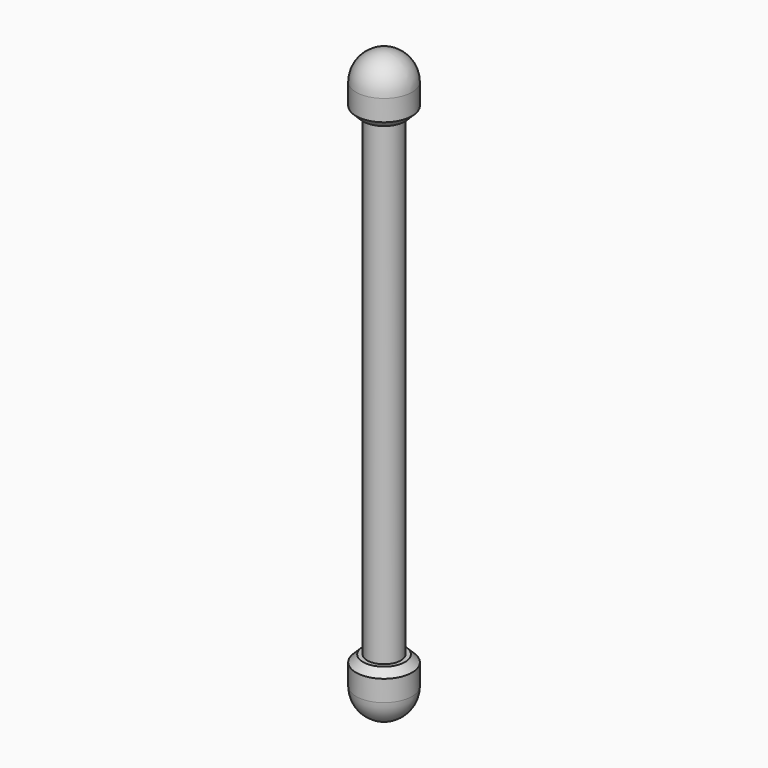
from build123d import *

# Parameters (mm, degrees)
F0_R     = 4.8
F1_DEPTH = 136
F2_R     = 8
F3_DEPTH = 16
F4_R     = 8
F5_DEPTH = 16
F6_R     = 8
F7_SIZE  = 2


with BuildPart() as f1:
    # F0 (on Top) → F1 (new body)
    with BuildSketch(Plane.XY):
        Circle(F0_R)
    extrude(amount=F1_DEPTH)

    # F2 (on face) → F3 (join)
    with BuildSketch(Plane(origin=(0, 0, 0), x_dir=(1, 0, 0), z_dir=(0, 0, -1))):
        Circle(F2_R)
    extrude(amount=F3_DEPTH)

    # F4 (on face) → F5 (join)
    with BuildSketch(Plane.XY.offset(136)):
        Circle(F4_R)
    extrude(amount=F5_DEPTH)

    # F6
    f6_edges = [f1.edges().sort_by_distance(p)[0] for p in [
        (-8, 0, -16),
        (-8, 0, 152),
    ]]
    fillet(f6_edges, radius=F6_R)

    # F7
    f7_edges = [f1.edges().sort_by_distance(p)[0] for p in [
        (-8, 0, 0),
        (-8, 0, 136),
    ]]
    chamfer(f7_edges, length=F7_SIZE)


solid = f1.part
